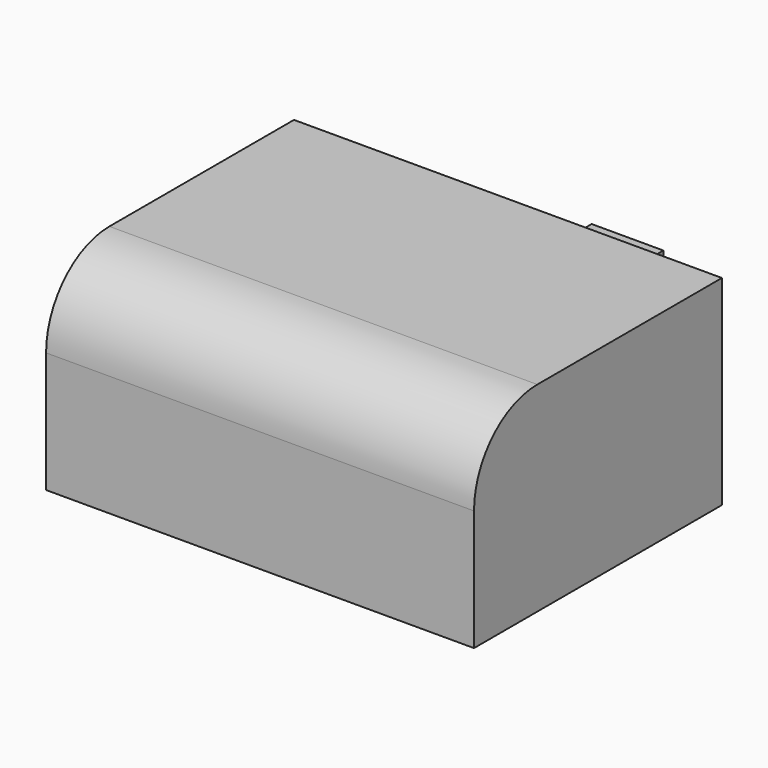
from build123d import *

# Parameters (mm, degrees)
F0_W     = 44.029299
F0_H     = 20.568207
F1_DEPTH = 31.881519
F2_R     = 8.141147
F3_W     = 7.381364
F3_H     = 4.12172
F4_DEPTH = 13.804998


with BuildPart() as f1:
    # F0 (on Front) → F1 (new body)
    with BuildSketch(Plane.XZ):
        with Locations((8.360238, 10.284103)):
            Rectangle(F0_W, F0_H)
        with Locations((8.360238, 10.284103)):
            Rectangle(F0_W, F0_H)
    extrude(amount=F1_DEPTH)

    # F2
    f2_edges = [f1.edges().sort_by_distance(p)[0] for p in [
        (8.360239, -31.881519, 20.568207),
    ]]
    fillet(f2_edges, radius=F2_R)

    # F3 (on face) → F4 (join)
    with BuildSketch(Plane(origin=(0, 0, 0), x_dir=(-1, 0, 0), z_dir=(0, 1, 0))):
        with Locations((-9.618722, 9.832263)):
            Rectangle(F3_W, F3_H)
    extrude(amount=F4_DEPTH)


solid = f1.part
